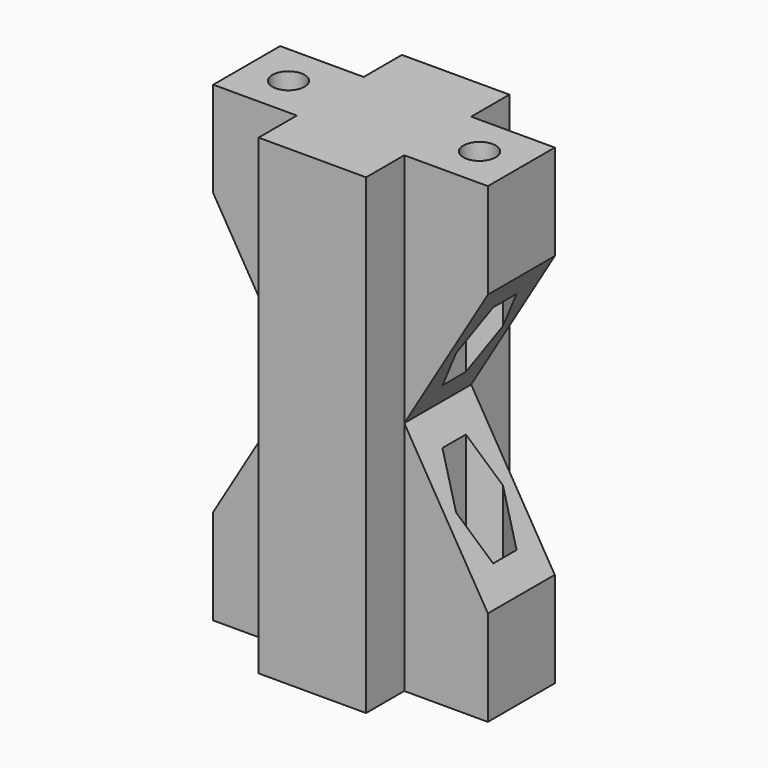
from build123d import *

# Parameters (mm, degrees)
F1_DEPTH      = 79
F3_DEPTH      = 14
F4_R          = 2.7
F5_DEPTH      = 79
F8_DEPTH      = 25
F8_DEPTH_BACK = 25


with BuildPart() as f1:
    # F0 (on Top) → F1 (new body)
    with BuildSketch(Plane.XY):
        Polygon((-9, 7), (-23, 7), (-23, -7), (-9, -7), (-9, -15), (9, -15), (9, -7), (23, -7), (23, 7), (9, 7), (9, 15), (-9, 15), align=None)
    extrude(amount=F1_DEPTH)

    # F2 (on face) → F3 (cut, through all)
    with BuildSketch(Plane.XZ.offset(7)):
        Polygon((-9, 39.5), (-23, 63), (-23, 16), align=None)
        Polygon((23, 63), (9, 39.5), (23, 16), align=None)
    extrude(amount=-F3_DEPTH, mode=Mode.SUBTRACT)

    # F4 (on face) → F5 (cut)
    with BuildSketch(Plane.XY.offset(79)):
        with Locations((-16, 0)):
            Circle(F4_R)
        with Locations((16, 0)):
            Circle(F4_R)
    extrude(amount=-F5_DEPTH, mode=Mode.SUBTRACT)

    # F7 (on offset) → F8 (cut, two sides)
    with BuildSketch(Plane.XY.offset(39.5)) as f8_sk:
        Polygon((-16, 4.9074772881), (-20.25, 2.4537386441), (-20.25, -2.4537386441), (-16, -4.9074772881), (-11.75, -2.4537386441), (-11.75, 2.4537386441), align=None)
        Polygon((20.25, -2.4537386441), (20.25, 2.4537386441), (16, 4.9074772881), (11.75, 2.4537386441), (11.75, -2.4537386441), (16, -4.9074772881), align=None)
    extrude(amount=-F8_DEPTH, mode=Mode.SUBTRACT)
    extrude(f8_sk.sketch, amount=F8_DEPTH_BACK, mode=Mode.SUBTRACT)


solid = f1.part
